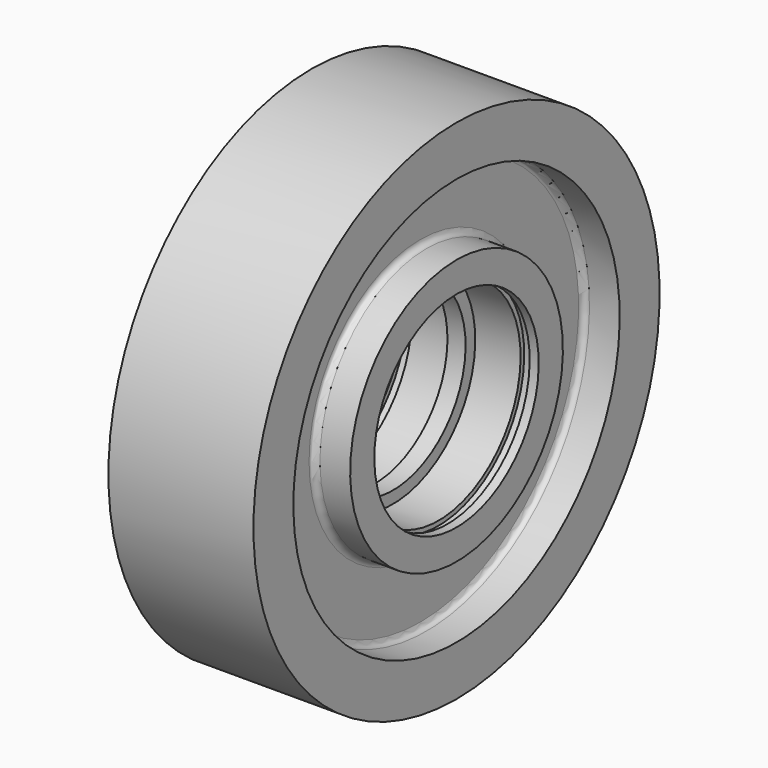
from build123d import *


with BuildPart() as f1:
    # F0 (on Front) → F1 (revolve)
    with BuildSketch(Plane.XZ):
        with BuildLine():
            Line((24, 84), (0, 84))
            Line((0, 84), (-24, 84))
            Line((-24, 84), (-24, 67.5))
            Line((-24, 67.5), (-14, 67.5))
            ThreePointArc((-14, 67.5), (-12.585786, 66.914214), (-12, 65.5))
            Line((-12, 65.5), (-12, 46))
            ThreePointArc((-12, 46), (-12.585786, 44.585786), (-14, 44))
            Line((-14, 44), (-24, 44))
            Line((-24, 44), (-24, 34))
            Line((-24, 34), (-21, 34))
            Line((-21, 34), (-21, 35.5))
            Line((-21, 35.5), (-18, 35.5))
            Line((-18, 35.5), (-18, 34))
            Line((-18, 34), (-3, 34))
            Line((-3, 34), (-3, 30))
            Line((-3, 30), (0, 30))
            Line((0, 30), (3, 30))
            Line((3, 30), (3, 34))
            Line((3, 34), (18, 34))
            Line((18, 34), (18, 35.5))
            Line((18, 35.5), (21, 35.5))
            Line((21, 35.5), (21, 34))
            Line((21, 34), (24, 34))
            Line((24, 34), (24, 44))
            Line((24, 44), (14, 44))
            ThreePointArc((14, 44), (12.585786, 44.585786), (12, 46))
            Line((12, 46), (12, 65.5))
            ThreePointArc((12, 65.5), (12.585786, 66.914214), (14, 67.5))
            Line((14, 67.5), (24, 67.5))
            Line((24, 67.5), (24, 84))
        make_face()
    revolve(axis=Axis((-12, 0, 0), (1, 0, 0)))


solid = f1.part
